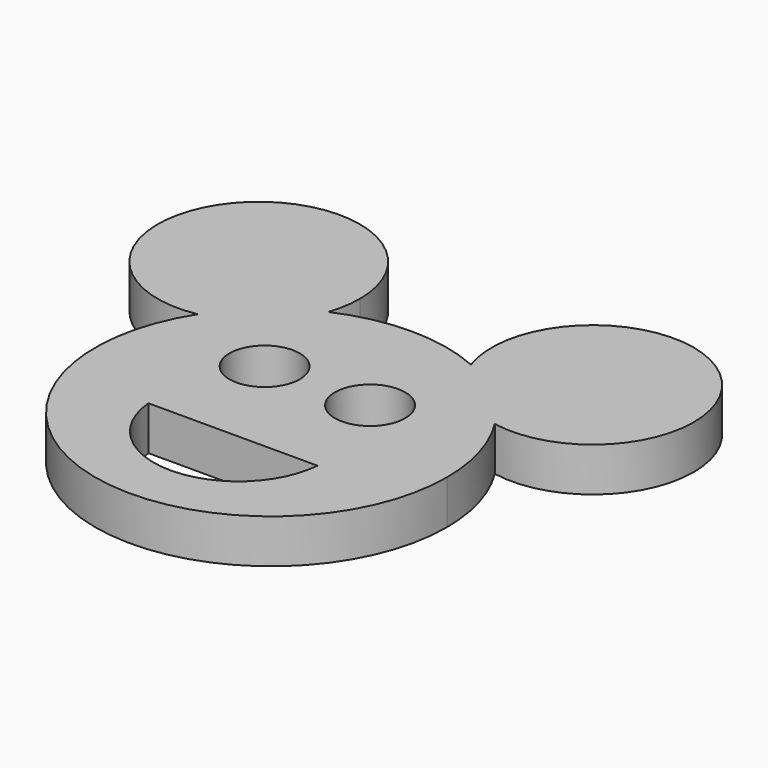
from build123d import *

# Parameters (mm, degrees)
F1_DEPTH = 6.35
F4_DEPTH = 25.4
F5_R     = 5.08
F6_DEPTH = 25.4


with BuildPart() as f1:
    # F0 (on Top) → F1 (new body)
    with BuildSketch(Plane.XY):
        with BuildLine():
            ThreePointArc((-21.4647859524, 13.5802416775), (-7.0694567263, -24.396368205), (25.4, 0))
            ThreePointArc((25.4, 0), (24.396368205, 7.0694567263), (21.4647859524, 13.5802416775))
            ThreePointArc((21.4647859524, 13.5802416775), (14.5838817936, 16.8865999715), (10.3111400831, 23.2129358373))
            ThreePointArc((10.3111400831, 23.2129358373), (0, 25.4), (-10.3111400831, 23.2129358373))
            ThreePointArc((-10.3111400831, 23.2129358373), (-14.5838817936, 16.8865999715), (-21.4647859524, 13.5802416775))
        make_face()
        with BuildLine():
            ThreePointArc((-9.525, 27.94), (-35.360126361, 37.277573931), (-21.4647859524, 13.5802416775))
            ThreePointArc((-21.4647859524, 13.5802416775), (-16.6019447068, 19.2233043973), (-10.3111400831, 23.2129358373))
            ThreePointArc((-10.3111400831, 23.2129358373), (-9.7228754763, 25.544005852), (-9.525, 27.94))
        make_face()
        with BuildLine():
            ThreePointArc((-10.3111400831, 23.2129358373), (-16.6019447068, 19.2233043973), (-21.4647859524, 13.5802416775))
            ThreePointArc((-21.4647859524, 13.5802416775), (-14.5838817936, 16.8865999715), (-10.3111400831, 23.2129358373))
        make_face()
        with BuildLine():
            ThreePointArc((10.3111400831, 23.2129358373), (14.5838817936, 16.8865999715), (21.4647859524, 13.5802416775))
            ThreePointArc((21.4647859524, 13.5802416775), (16.6019447068, 19.2233043973), (10.3111400831, 23.2129358373))
        make_face()
        with BuildLine():
            ThreePointArc((10.3111400831, 23.2129358373), (16.6019447068, 19.2233043973), (21.4647859524, 13.5802416775))
            ThreePointArc((21.4647859524, 13.5802416775), (33.467573931, 16.709873639), (38.735, 27.94))
            ThreePointArc((38.735, 27.94), (21.734005852, 42.3471245237), (10.3111400831, 23.2129358373))
        make_face()
    extrude(amount=F1_DEPTH)

    # F3 (on face) → F4 (cut)
    with BuildSketch(Plane.XY.offset(6.35)):
        with BuildLine():
            Line((12.2104091206, -6.8823373568), (-12.2104091206, -6.8823373568))
            ThreePointArc((-12.2104091206, -6.8823373568), (0, -18.1409484321), (12.2104091206, -6.8823373568))
        make_face()
    extrude(amount=-F4_DEPTH, mode=Mode.SUBTRACT)

    # F5 (on face) → F6 (cut)
    with BuildSketch(Plane.XY.offset(6.35)):
        with Locations((-7.62, 8.3576626432)):
            Circle(F5_R)
        with Locations((7.62, 8.3576626432)):
            Circle(F5_R)
    extrude(amount=-F6_DEPTH, mode=Mode.SUBTRACT)


solid = f1.part
